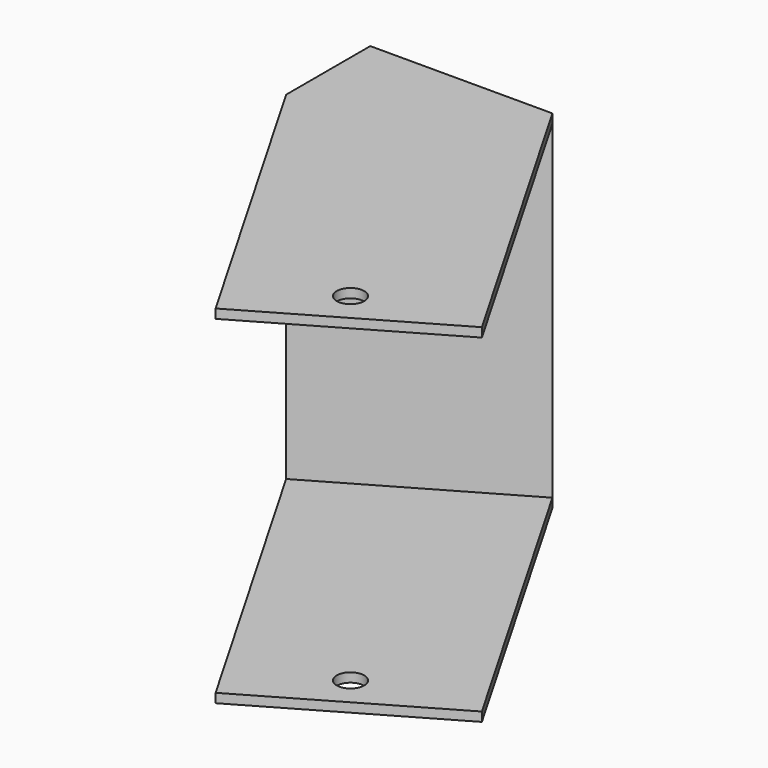
from build123d import *

# Parameters (mm, degrees)
F1_DEPTH = 60.325
F3_DEPTH = 3.175
F5_DEPTH = 3.175
F6_R     = 4.7625
F7_DEPTH = 120.651


with BuildPart() as f1:
    # F0 (on Top) → F1 (new body, symmetric)
    with BuildSketch(Plane.XY):
        Polygon((63.241505, 0), (0, 0), (0, -36.5125), align=None)
    extrude(amount=F1_DEPTH, both=True)

    # F2 (on face) → F3 (join)
    with BuildSketch(Plane.XY.offset(60.325)):
        Polygon((63.241505, 0), (0, -36.5125), (63.5, -146.497726), (126.741505, -109.985226), align=None)
    extrude(amount=-F3_DEPTH)

    # F4 (on face) → F5 (join)
    with BuildSketch(Plane(origin=(0, 0, -60.325), x_dir=(1, 0, 0), z_dir=(0, 0, -1))):
        Polygon((63.5, 146.497726), (0, 36.5125), (63.241505, 0), (126.741505, 109.985226), align=None)
    extrude(amount=-F5_DEPTH)

    # F6 (on face) → F7 (cut, through all)
    with BuildSketch(Plane.XY.offset(60.325)):
        with Locations((87.504892, -117.973799)):
            Circle(F6_R)
    extrude(amount=-F7_DEPTH, mode=Mode.SUBTRACT)


solid = f1.part
